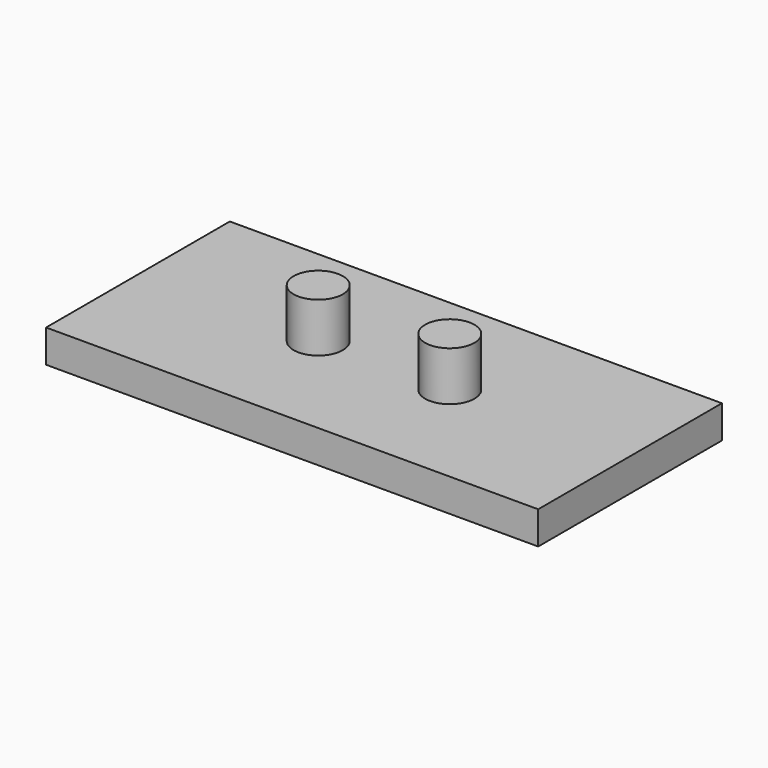
from build123d import *

# Parameters (mm, degrees)
F0_W     = 150
F0_H     = 70
F0_R     = 7.5
F1_DEPTH = 10
F2_DEPTH = 15


with BuildPart() as f1:
    # F0 (on Top) → F1 (new body)
    with BuildSketch(Plane.XY):
        Rectangle(F0_W, F0_H)
        with Locations((-20.05, 0)):
            Circle(F0_R, mode=Mode.SUBTRACT)
        with Locations((20.05, 0)):
            Circle(F0_R, mode=Mode.SUBTRACT)
        with Locations((20.05, 0)):
            Circle(F0_R)
        with Locations((-20.05, 0)):
            Circle(F0_R)
    extrude(amount=-F1_DEPTH)

    # F0 (on Top) → F2 (join)
    with BuildSketch(Plane.XY):
        with Locations((-20.05, 0)):
            Circle(F0_R)
        with Locations((20.05, 0)):
            Circle(F0_R)
    extrude(amount=F2_DEPTH)


solid = f1.part
